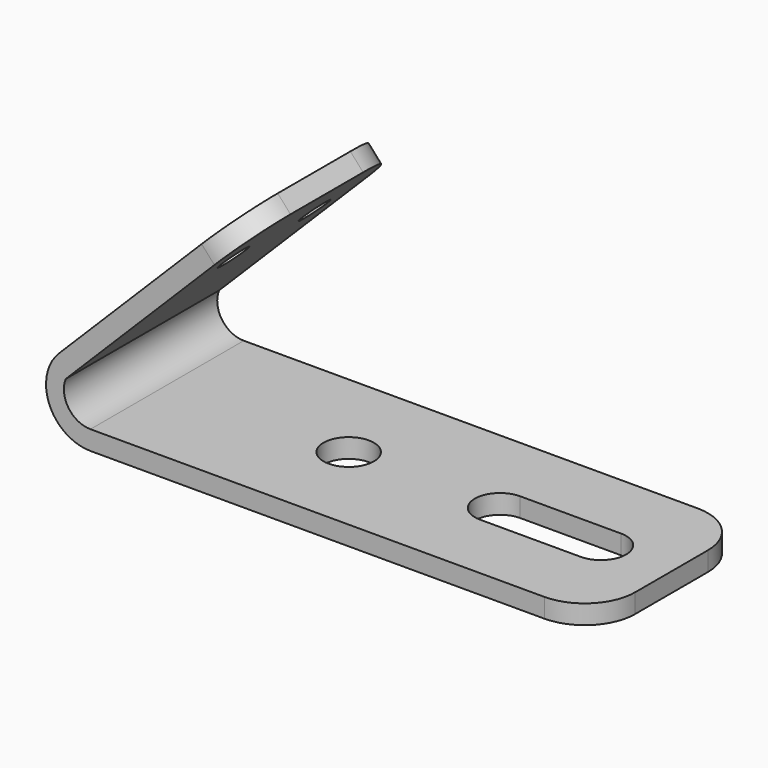
from build123d import *

# Parameters (mm, degrees)
F0_R     = 6.35
F1_DEPTH = 4.826
F3_DEPTH = 24.13
F4_R     = 12.7
F5_R     = 12.7
F6_R     = 3.81
F7_DEPTH = 25.4


with BuildPart() as f1:
    # F0 (on Top) → F1 (new body)
    with BuildSketch(Plane.XY):
        with BuildLine():
            ThreePointArc((63.5, 11.43), (59.7802561211, 20.4102561211), (50.8, 24.13))
            Line((50.8, 24.13), (-63.5, 24.13))
            Line((-63.5, 24.13), (-63.5, -24.13))
            Line((-63.5, -24.13), (50.8, -24.13))
            ThreePointArc((50.8, -24.13), (59.7802561211, -20.4102561211), (63.5, -11.43))
            Line((63.5, -11.43), (63.5, 11.43))
        make_face()
        with Locations((-17.78, 0)):
            Circle(F0_R, mode=Mode.SUBTRACT)
        with BuildLine():
            Line((20.32, 6.35), (45.72, 6.35))
            ThreePointArc((45.72, 6.35), (52.07, 0), (45.72, -6.35))
            Line((45.72, -6.35), (20.32, -6.35))
            ThreePointArc((20.32, -6.35), (13.97, 0), (20.32, 6.35))
        make_face(mode=Mode.SUBTRACT)
    extrude(amount=F1_DEPTH)

    # F2 (on Front) → F3 (join, symmetric)
    with BuildSketch(Plane.XZ):
        with BuildLine():
            Line((-26.5013447812, 63.9799059919), (-71.4026253865, 19.0786253865))
            ThreePointArc((-71.4026253865, 19.0786253865), (-73.8252776553, 6.8991299599), (-63.5, 0))
            Line((-63.5, 0), (-63.5, 4.826))
            ThreePointArc((-63.5, 4.826), (-69.0200017902, 7.7421508405), (-69.7222982113, 13.9454673105))
            Line((-69.7222982113, 13.9454673105), (-23.2926998145, 60.3750657073))
            Line((-23.2926998145, 60.3750657073), (-26.5013447812, 63.9799059919))
        make_face()
    extrude(amount=F3_DEPTH, both=True)

    # F4
    f4_edges = [f1.edges().sort_by_distance(p)[0] for p in [
        (-24.897022, 24.13, 62.177486),
    ]]
    fillet(f4_edges, radius=F4_R)

    # F5
    f5_edges = [f1.edges().sort_by_distance(p)[0] for p in [
        (-24.897022, -24.13, 62.177486),
    ]]
    fillet(f5_edges, radius=F5_R)

    # F6 (on face) → F7 (cut)
    with BuildSketch(Plane(origin=(-45.2406253865, 0, 45.2406253865), x_dir=(0, -1, 0), z_dir=(-0.7071067812, 0, 0.7071067812))):
        with Locations((-12.7, 7.4513447812)):
            Circle(F6_R)
        with Locations((12.7, 7.4513447812)):
            Circle(F6_R)
    extrude(amount=-F7_DEPTH, mode=Mode.SUBTRACT)


solid = f1.part
